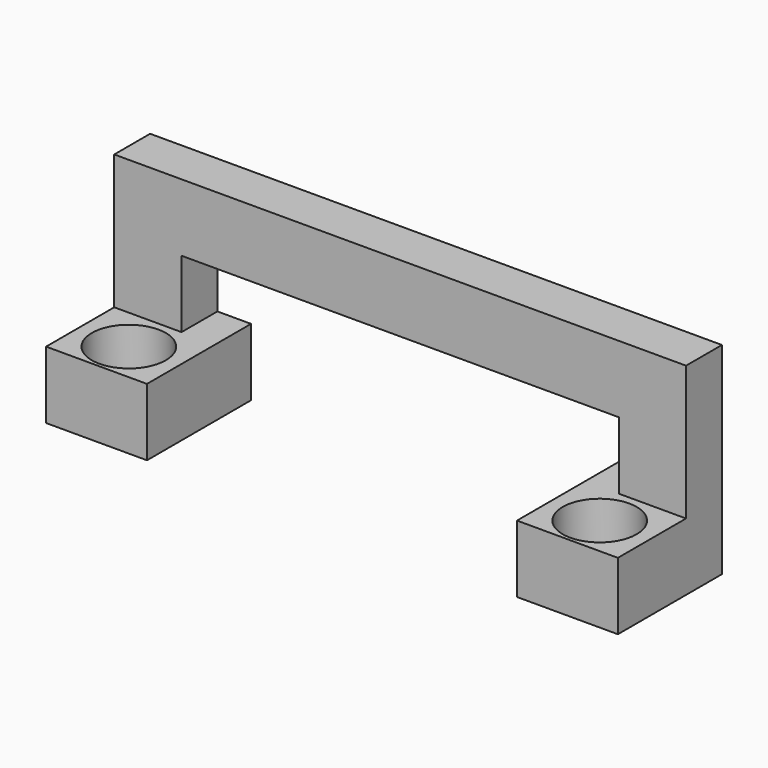
from build123d import *

# Parameters (mm, degrees)
F0_W     = 9.75
F0_H     = 3
F0_W_2   = 3
F0_W_3   = 1.5
F1_DEPTH = 2
F2_W     = 4.5
F2_H     = 3
F3_DEPTH = 3.8
F4_R     = 1.65
F5_DEPTH = 9.001


with BuildPart() as f1:
    # F0 (on Front) → F1 (new body)
    with BuildSketch(Plane.XZ):
        Polygon((-8.25, 0), (0, 0), (0, 3), (-9.75, 3), (-9.75, 0), align=None)
        with Locations((4.875, 1.5)):
            Rectangle(F0_W, F0_H)
        Polygon((9.75, 3), (9.75, 0), (9.75, -3), (12.75, -3), (12.75, 3), align=None)
        with Locations((-11.25, 1.5)):
            Rectangle(F0_W_2, F0_H)
        with Locations((-11.25, -1.5)):
            Rectangle(F0_W_2, F0_H)
        Polygon((12.75, -3), (9.75, -3), (8.25, -3), (8.25, -6), (12.75, -6), align=None)
        with Locations((-11.25, -4.5)):
            Rectangle(F0_W_2, F0_H)
        with Locations((-9, -4.5)):
            Rectangle(F0_W_3, F0_H)
    extrude(amount=F1_DEPTH)

    # F2 (on face) → F3 (join)
    with BuildSketch(Plane.XZ.offset(2)):
        with Locations((-10.5, -4.5)):
            Rectangle(F2_W, F2_H)
        with Locations((10.5, -4.5)):
            Rectangle(F2_W, F2_H)
    extrude(amount=F3_DEPTH)

    # F4 (on face) → F5 (cut, through all)
    with BuildSketch(Plane(origin=(0, 0, -6), x_dir=(1, 0, 0), z_dir=(0, 0, -1))):
        with Locations((-10.5, 4)):
            Circle(F4_R)
        with Locations((10.5, 4)):
            Circle(F4_R)
    extrude(amount=-F5_DEPTH, mode=Mode.SUBTRACT)


solid = f1.part
